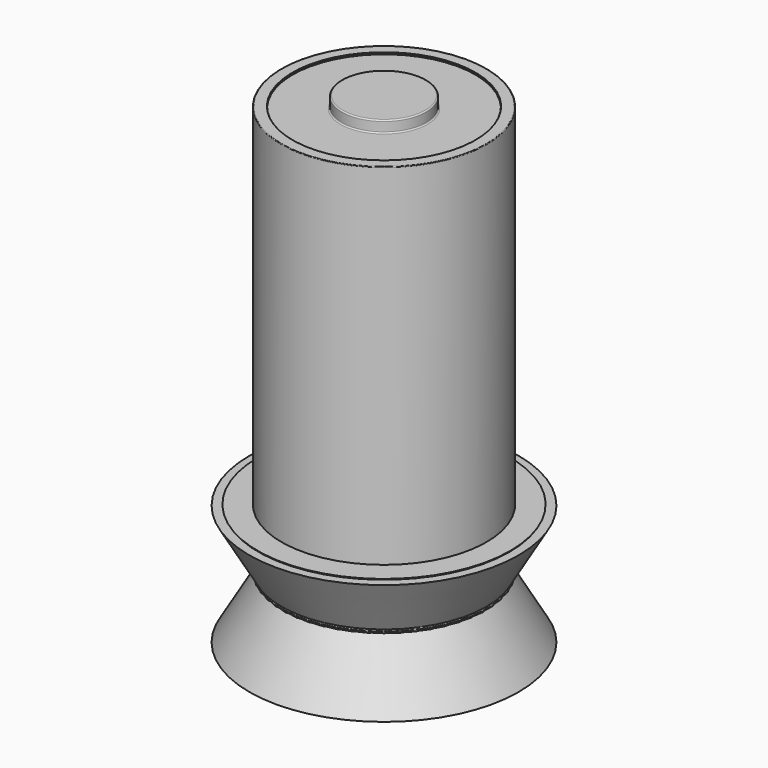
from build123d import *

# Parameters (mm, degrees)
F1_FACE_R    = 18.138528446
F1_FACE1_R   = 19.812
F1_FACE1_R_2 = 18.245804479
F2_DEPTH     = 11.938
F2_TAPER     = -30


with BuildPart() as f1:
    # F0 (on Right) → F1 (revolve)
    with BuildSketch(Plane.YZ):
        with BuildLine():
            Line((0, 48.961751096), (0, 0))
            Line((0, 0), (0, -32.1024172008))
            Line((0, -32.1024172008), (18.138528446, -32.1024172008))
            ThreePointArc((18.138528446, -32.1024172008), (18.1764562512, -32.1181274121), (18.1921664625, -32.1560552173))
            Line((18.1921664625, -32.1560552173), (18.1921664625, -32.2646108875))
            ThreePointArc((18.1921664625, -32.2646108875), (18.2078766738, -32.3025386927), (18.245804479, -32.318248904))
            Line((18.245804479, -32.318248904), (19.812, -32.318248904))
            ThreePointArc((19.812, -32.318248904), (20.1712102448, -32.1694591489), (20.32, -31.810248904))
            Line((20.32, -31.810248904), (20.32, 48.4516359195))
            Line((20.32, 48.4516359195), (20.32, 48.961751096))
            Line((20.32, 48.961751096), (20.32, 49.1897210786))
            ThreePointArc((20.32, 49.1897210786), (20.2828025612, 49.2795236398), (20.193, 49.3167210786))
            Line((20.193, 49.3167210786), (18.1473742696, 49.3167210786))
            ThreePointArc((18.1473742696, 49.3167210786), (18.1294137574, 49.3092815909), (18.1219742696, 49.2913210786))
            Line((18.1219742696, 49.2913210786), (18.1219742696, 48.987151096))
            ThreePointArc((18.1219742696, 48.987151096), (18.1145347819, 48.9691905837), (18.0965742696, 48.961751096))
            Line((18.0965742696, 48.961751096), (8.6261840197, 48.961751096))
            ThreePointArc((8.6261840197, 48.961751096), (8.4522951859, 49.0337782093), (8.3802680726, 49.2076670431))
            Line((8.3802680726, 49.2076670431), (8.3802680726, 51.0137942862))
            ThreePointArc((8.3802680726, 51.0137942862), (8.3082409592, 51.1876831201), (8.1343521254, 51.2597102334))
            Line((8.1343521254, 51.2597102334), (0, 51.2597102334))
            Line((0, 51.2597102334), (0, 48.961751096))
        make_face()
    revolve(axis=Axis((0, 0, 24.480875548), (0, 0, 1)))

    # F1_face (on face) + F1_face1 (on face) → F2 (join, symmetric)
    with BuildSketch(Plane(origin=(0, 0, -32.1024172008), x_dir=(1, 0, 0), z_dir=(0, 0, -1))):
        Circle(F1_FACE_R)
    with BuildSketch(Plane(origin=(0, 0, -32.318248904), x_dir=(1, 0, 0), z_dir=(0, 0, -1))):
        Circle(F1_FACE1_R)
        Circle(F1_FACE1_R_2, mode=Mode.SUBTRACT)
    extrude(amount=F2_DEPTH, both=True, taper=F2_TAPER)


solid = f1.part
